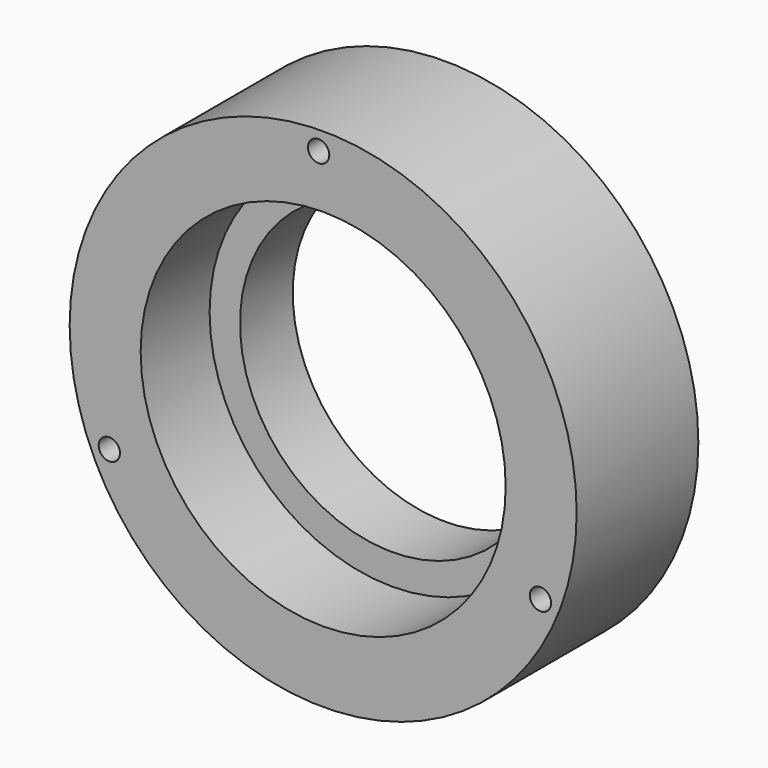
from build123d import *

# Parameters (mm, degrees)
F0_R     = 36
F0_R_2   = 30
F1_DEPTH = 13
F0_R_3   = 50
F0_R_4   = 2.1
F2_DEPTH = 30
F3_DEPTH = 13


with BuildPart() as f1:
    # F0 (on Front) → F1 (new body)
    with BuildSketch(Plane.XZ):
        with Locations((-81.370543, 0)):
            Circle(F0_R)
        with Locations((-81.370543, 0)):
            Circle(F0_R_2, mode=Mode.SUBTRACT)
    extrude(amount=F1_DEPTH)

    # F0 (on Front) → F2 (join)
    with BuildSketch(Plane.XZ):
        with Locations((-81.370543, 0)):
            Circle(F0_R_3)
        with Locations((-123.541678, -18.964189)):
            Circle(F0_R_4, mode=Mode.SUBTRACT)
        with Locations((-38.513874, -17.330143)):
            Circle(F0_R_4, mode=Mode.SUBTRACT)
        with Locations((-82.265135, 46.239)):
            Circle(F0_R_4, mode=Mode.SUBTRACT)
        with Locations((-81.370543, 0)):
            Circle(F0_R, mode=Mode.SUBTRACT)
    extrude(amount=F2_DEPTH)

    # F0 (on Front) → F3 (join)
    with BuildSketch(Plane.XZ):
        with Locations((-123.541678, -18.964189)):
            Circle(F0_R_4)
        with Locations((-82.265135, 46.239)):
            Circle(F0_R_4)
        with Locations((-38.513874, -17.330143)):
            Circle(F0_R_4)
    extrude(amount=F3_DEPTH)


solid = f1.part
